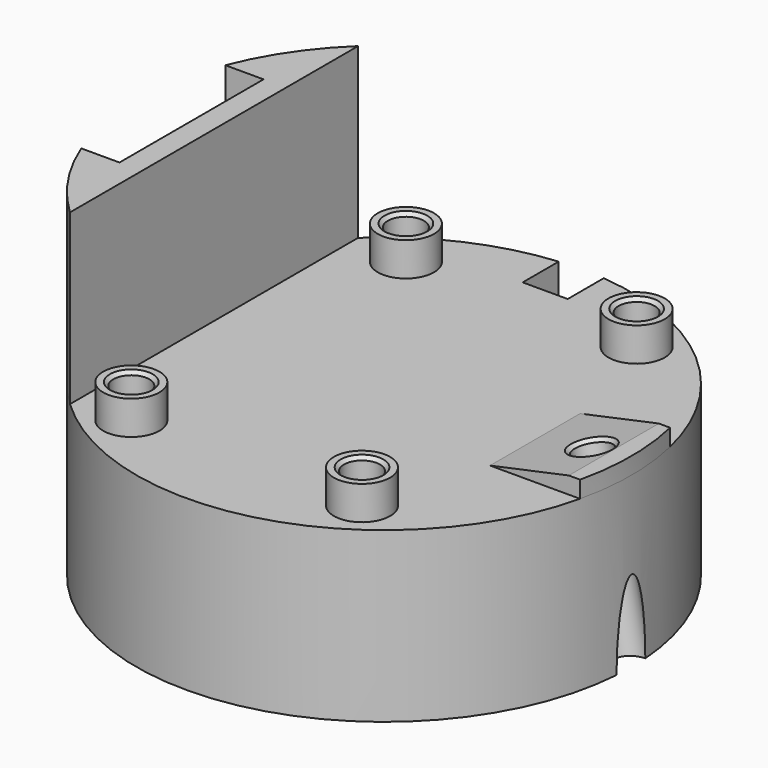
from build123d import *

# Parameters (mm, degrees)
SKETCH_R        = 22
PAD_DEPTH       = 15
PAD001_DEPTH    = 15
POCKET_DEPTH    = 30.001
SKETCH003_R     = 2.5
PAD002_DEPTH    = 3
SKETCH004_R     = 1.6
POCKET001_DEPTH = 10
POCKET002_DEPTH = 15.001
SKETCH006_W     = 16
SKETCH006_H     = 6.5
POCKET003_DEPTH = 12
PAD003_DEPTH    = 1.5
PAD004_DEPTH    = 10
SKETCH009_R     = 1.6
POCKET004_DEPTH = 16.4648979005
SKETCH010_R     = 1.6
POCKET005_DEPTH = 10
CHAMFER_SIZE    = 0.3
CHAMFER001_SIZE = 0.3
CHAMFER002_SIZE = 0.3
CHAMFER003_SIZE = 0.3
CHAMFER004_SIZE = 0.3
CHAMFER005_SIZE = 0.3


with BuildPart() as part:
    # Sketch → Pad (new body)
    with BuildSketch(Plane.XY):
        Circle(SKETCH_R)
    extrude(amount=PAD_DEPTH)

    # Sketch001 → Pad001 (new body)
    with BuildSketch(Plane.XY.offset(15)):
        with BuildLine():
            ThreePointArc((-15.0996688705, 16), (-22, 0), (-15.0996688705, -16))
            Line((-15.0996688705, 16), (-15.0996688705, -16))
        make_face()
    extrude(amount=PAD001_DEPTH)

    # Sketch002 → Pocket (cut, through all)
    with BuildSketch(Plane.XY.offset(30)):
        with BuildLine():
            ThreePointArc((-20.4939015319, 8), (-22, 0), (-20.4939015319, -8))
            Line((-20.4939015319, -8), (-17.0996688705, -8))
            Line((-17.0996688705, 8), (-17.0996688705, -8))
            Line((-20.4939015319, 8), (-17.0996688705, 8))
        make_face()
    extrude(amount=-POCKET_DEPTH, mode=Mode.SUBTRACT)

    # Sketch003 → Pad002 (new body)
    with BuildSketch(Plane.XY.offset(15)):
        with Locations((-10.25, 15.25)):
            Circle(SKETCH003_R)
        with Locations((10.25, 15.25)):
            Circle(SKETCH003_R)
        with Locations((-10.25, -15.25)):
            Circle(SKETCH003_R)
        with Locations((10.25, -15.25)):
            Circle(SKETCH003_R)
    extrude(amount=PAD002_DEPTH)

    # Sketch004 → Pocket001 (cut)
    with BuildSketch(Plane.XY.offset(18)):
        with Locations((-10.25, 15.25)):
            Circle(SKETCH004_R)
        with Locations((10.25, 15.25)):
            Circle(SKETCH004_R)
        with Locations((-10.25, -15.25)):
            Circle(SKETCH004_R)
        with Locations((10.25, -15.25)):
            Circle(SKETCH004_R)
    extrude(amount=-POCKET001_DEPTH, mode=Mode.SUBTRACT)

    # Sketch005 → Pocket002 (cut, through all)
    with BuildSketch(Plane.XY.offset(15)):
        with BuildLine():
            ThreePointArc((2, 21.9089023002), (0, 22), (-2, 21.9089023002))
            Line((-2, 21.9089023002), (-2, 17.9089023002))
            Line((-2, 17.9089023002), (2, 17.9089023002))
            Line((2, 21.9089023002), (2, 17.9089023002))
        make_face()
    extrude(amount=-POCKET002_DEPTH, mode=Mode.SUBTRACT)

    # Sketch006 → Pocket003 (cut)
    with BuildSketch(Plane(origin=(-17.0996688705, 0, 0), x_dir=(0, -1, 0), z_dir=(-1, 0, 0))):
        with Locations((0, 3.25)):
            Rectangle(SKETCH006_W, SKETCH006_H)
    extrude(amount=-POCKET003_DEPTH, mode=Mode.SUBTRACT)

    # Sketch007 → Pad003 (new body)
    with BuildSketch(Plane.XY.offset(15)):
        with BuildLine():
            ThreePointArc((21.4242852856, -5), (22, 0), (21.4242852856, 5))
            Line((21.4242852856, 5), (20.4242852856, 5))
            Line((20.4242852856, 5), (20.4242852856, -5))
            Line((20.4242852856, -5), (21.4242852856, -5))
        make_face()
    extrude(amount=PAD003_DEPTH)

    # Sketch008 → Pad004 (new body)
    with BuildSketch(Plane.XZ.offset(5)):
        Polygon((20.4242852856, 16.5), (13.4242852856, 15), (20.4242852856, 15), align=None)
    extrude(amount=-PAD004_DEPTH)

    # Sketch009 → Pocket004 (cut, through all)
    with BuildSketch(Plane(origin=(-2.4838118655, 0, 11.591122039), x_dir=(0.9778024141, 0, 0.2095290887), z_dir=(-0.2095290887, 0, 0.9778024141))):
        with Locations((21.4281454222, 0)):
            Circle(SKETCH009_R)
    extrude(amount=-POCKET004_DEPTH, mode=Mode.SUBTRACT)

    # Sketch010 → Pocket005 (cut)
    with BuildSketch(Plane(origin=(0, 0, 0), x_dir=(1, 0, 0), z_dir=(0, 0, -1))):
        Circle(SKETCH010_R)
    extrude(amount=-POCKET005_DEPTH, mode=Mode.SUBTRACT)

    # Chamfer
    chamfer_edges = [part.edges().sort_by_distance(p)[0] for p in [
        (8.65, 15.25, 18),
    ]]
    chamfer(chamfer_edges, length=CHAMFER_SIZE)

    # Chamfer001
    chamfer001_edges = [part.edges().sort_by_distance(p)[0] for p in [
        (-11.85, 15.25, 18),
    ]]
    chamfer(chamfer001_edges, length=CHAMFER001_SIZE)

    # Chamfer002
    chamfer002_edges = [part.edges().sort_by_distance(p)[0] for p in [
        (-11.85, -15.25, 18),
    ]]
    chamfer(chamfer002_edges, length=CHAMFER002_SIZE)

    # Chamfer003
    chamfer003_edges = [part.edges().sort_by_distance(p)[0] for p in [
        (8.65, -15.25, 18),
    ]]
    chamfer(chamfer003_edges, length=CHAMFER003_SIZE)

    # Chamfer004
    chamfer004_edges = [part.edges().sort_by_distance(p)[0] for p in [
        (16.904197, 0, 15.745695),
    ]]
    chamfer(chamfer004_edges, length=CHAMFER004_SIZE)

    # Chamfer005
    chamfer005_edges = [part.edges().sort_by_distance(p)[0] for p in [
        (-1.6, 0, 0),
    ]]
    chamfer(chamfer005_edges, length=CHAMFER005_SIZE)


solid = part.part
